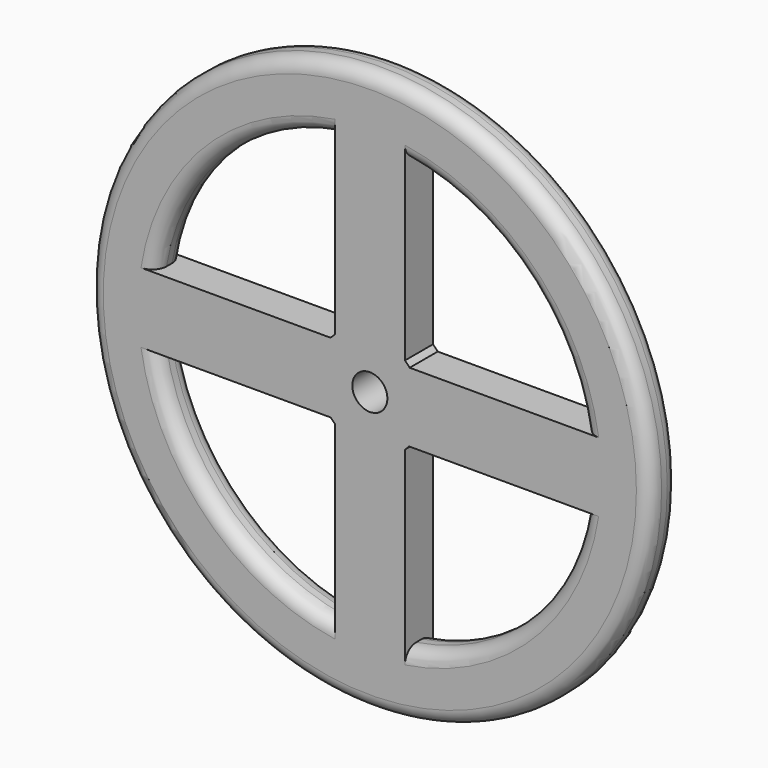
from build123d import *

# Parameters (mm, degrees)
F0_R     = 40
F0_R_2   = 2.5
F1_DEPTH = 2.5
F2_R     = 2


with BuildPart() as f1:
    # F0 (on Front) → F1 (new body, symmetric)
    with BuildSketch(Plane.XZ):
        Circle(F0_R)
        with BuildLine():
            ThreePointArc((-5, -30.594117), (-21.92031, -21.92031), (-30.594117, -5))
            Line((-30.594117, -5), (-5.59017, -5))
            ThreePointArc((-5.59017, -5), (-5.303301, -5.303301), (-5, -5.59017))
            Line((-5, -5.59017), (-5, -30.594117))
        make_face(mode=Mode.SUBTRACT)
        with BuildLine():
            Line((5, -30.594117), (5, -5.59017))
            ThreePointArc((5, -5.59017), (5.303301, -5.303301), (5.59017, -5))
            Line((5.59017, -5), (30.594117, -5))
            ThreePointArc((30.594117, -5), (21.92031, -21.92031), (5, -30.594117))
        make_face(mode=Mode.SUBTRACT)
        with BuildLine():
            Line((-5, 30.594117), (-5, 5.59017))
            ThreePointArc((-5, 5.59017), (-5.303301, 5.303301), (-5.59017, 5))
            Line((-5.59017, 5), (-30.594117, 5))
            ThreePointArc((-30.594117, 5), (-21.92031, 21.92031), (-5, 30.594117))
        make_face(mode=Mode.SUBTRACT)
        Circle(F0_R_2, mode=Mode.SUBTRACT)
        with BuildLine():
            ThreePointArc((5.678028, 4.9), (5.350154, 5.25603), (5, 5.59017))
            Line((5, 5.59017), (5, 30.594117))
            ThreePointArc((5, 30.594117), (21.956096, 21.884466), (30.610292, 4.9))
            Line((30.610292, 4.9), (5.678028, 4.9))
        make_face(mode=Mode.SUBTRACT)
    extrude(amount=F1_DEPTH, both=True)

    # F2
    f2_edges = [f1.edges().sort_by_distance(p)[0] for p in [
        (-40, 2.5, 0),
        (-40, -2.5, 0),
        (21.956096, 2.5, 21.884466),
        (-21.92031, 2.5, 21.92031),
        (21.92031, 2.5, -21.92031),
        (-21.92031, 2.5, -21.92031),
        (-21.92031, -2.5, 21.92031),
        (-21.92031, -2.5, -21.92031),
        (21.92031, -2.5, -21.92031),
        (21.956096, -2.5, 21.884466),
    ]]
    fillet(f2_edges, radius=F2_R)


solid = f1.part
